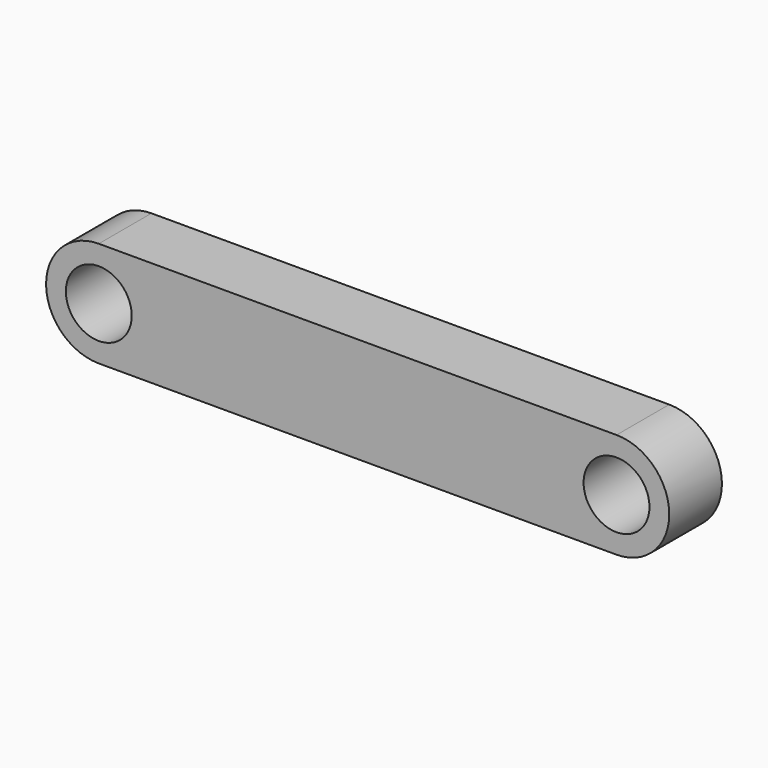
from build123d import *

# Parameters (mm, degrees)
F0_R     = 2.5
F1_DEPTH = 5


with BuildPart() as f1:
    # F0 (on Front) → F1 (new body)
    with BuildSketch(Plane.XZ):
        with BuildLine():
            Line((0, 4), (-19.65, 4))
            ThreePointArc((-19.65, 4), (-23.65, 0), (-19.65, -4))
            Line((-19.65, -4), (0, -4))
            Line((0, -4), (0, 4))
        make_face()
        with Locations((-19.65, 0)):
            Circle(F0_R, mode=Mode.SUBTRACT)
        with BuildLine():
            Line((19.65, 4), (0, 4))
            Line((0, 4), (0, -4))
            Line((0, -4), (19.65, -4))
            ThreePointArc((19.65, -4), (23.65, 0), (19.65, 4))
        make_face()
        with Locations((19.65, 0)):
            Circle(F0_R, mode=Mode.SUBTRACT)
    extrude(amount=F1_DEPTH)


solid = f1.part
